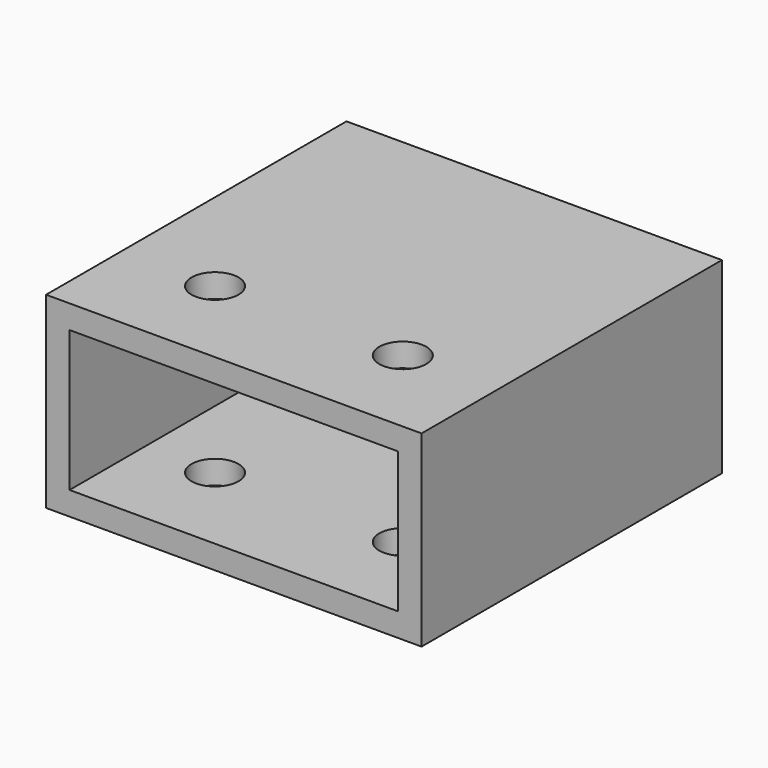
from build123d import *

# Parameters (mm, degrees)
F0_W     = 101.6
F0_H     = 50.8
F0_W_2   = 88.9
F0_H_2   = 38.1
F1_DEPTH = 101.6
F2_R     = 6.35
F3_DEPTH = 50.801


with BuildPart() as f1:
    # F0 (on Front) → F1 (new body)
    with BuildSketch(Plane.XZ):
        with Locations((0, 25.4)):
            Rectangle(F0_W, F0_H)
        with Locations((0, 25.4)):
            Rectangle(F0_W_2, F0_H_2, mode=Mode.SUBTRACT)
    extrude(amount=F1_DEPTH)

    # F2 (on face) → F3 (cut, through all)
    with BuildSketch(Plane.XY.offset(50.8)):
        with Locations((25.4, -76.2)):
            Circle(F2_R)
        with Locations((-25.4, -76.2)):
            Circle(F2_R)
    extrude(amount=-F3_DEPTH, mode=Mode.SUBTRACT)


solid = f1.part
